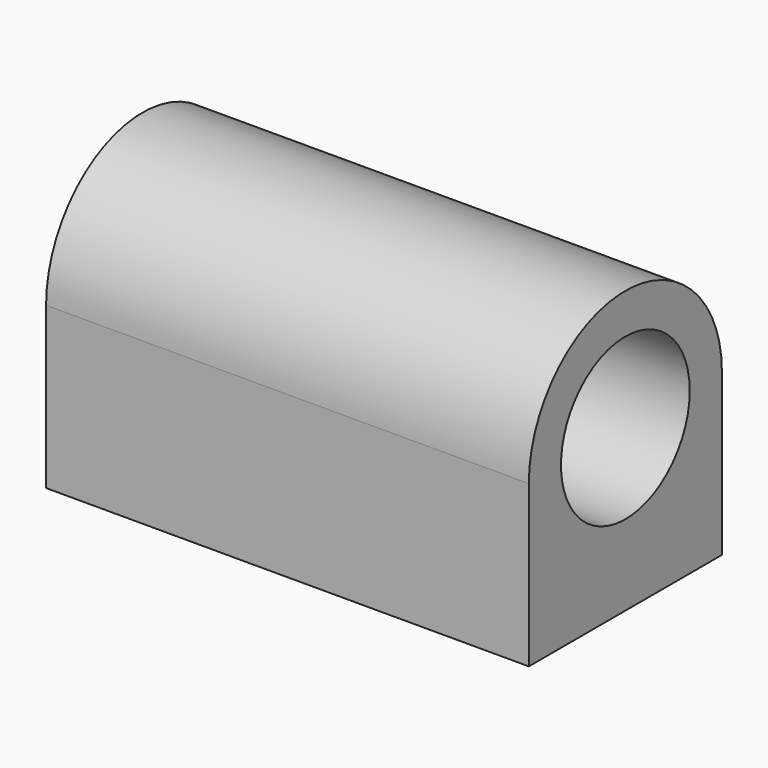
from build123d import *

# Parameters (mm, degrees)
F0_R     = 12.7
F1_DEPTH = 76.2
F3_D     = 3.302
F3_DEPTH = 12.7
F3_TIP   = 0.992020882


with BuildPart() as f1:
    # F0 (on Right) → F1 (new body)
    with BuildSketch(Plane.YZ):
        with BuildLine():
            Line((19.05, -25.4), (19.05, 0))
            ThreePointArc((19.05, 0), (0, 19.05), (-19.05, 0))
            Line((-19.05, 0), (-19.05, -25.4))
            Line((-19.05, -25.4), (19.05, -25.4))
        make_face()
        Circle(F0_R, mode=Mode.SUBTRACT)
    extrude(amount=-F1_DEPTH)

    # F3
    with Locations(Plane(origin=(0, 0, -25.4), x_dir=(1, 0, 0), z_dir=(0, 0, -1))):
        with Locations((-69.85, 12.7), (-69.85, -12.7), (-6.35, -12.7), (-6.35, 12.7)):
            Hole(F3_D / 2, depth=F3_DEPTH)
            with Locations((0, 0, -(F3_DEPTH + F3_TIP / 2))):  # 118° drill point
                Cone(0, F3_D / 2, F3_TIP, mode=Mode.SUBTRACT)


solid = f1.part
